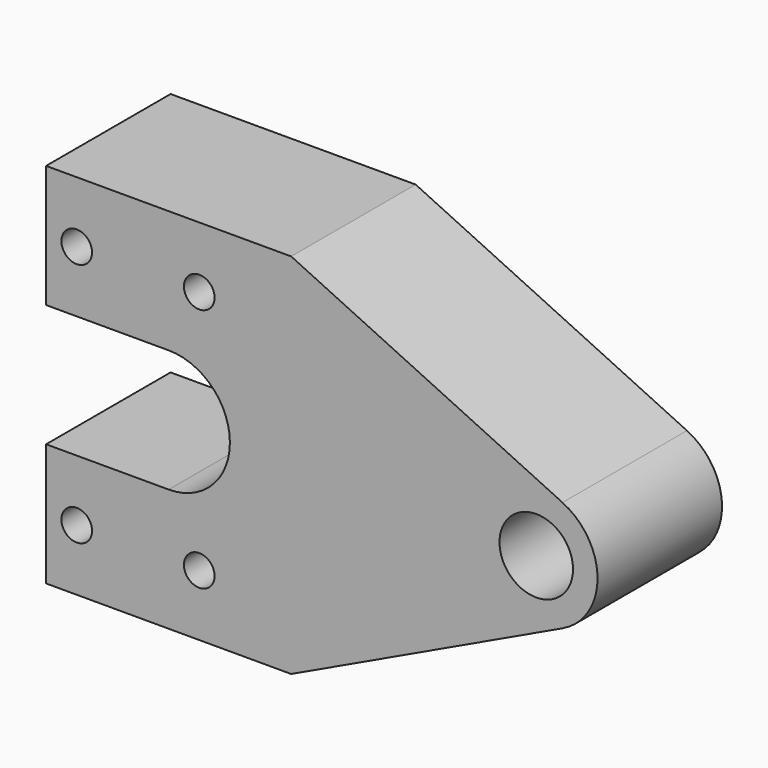
from build123d import *

# Parameters (mm, degrees)
F0_R     = 2.5
F0_R_2   = 6
F1_DEPTH = 25.4


with BuildPart() as f1:
    # F0 (on Front) → F1 (new body)
    with BuildSketch(Plane.XZ):
        with BuildLine():
            ThreePointArc((0, 10), (10, 0), (0, -10))
            Line((0, -10), (-20, -10))
            Line((-20, -10), (-20, -30))
            Line((-20, -30), (20, -30))
            Line((20, -30), (64.278775, -9.038367))
            ThreePointArc((64.278775, -9.038367), (70, 0), (64.278775, 9.038367))
            Line((64.278775, 9.038367), (20, 30))
            Line((20, 30), (-20, 30))
            Line((-20, 30), (-20, 10))
            Line((-20, 10), (0, 10))
        make_face()
        with Locations((-15, -20)):
            Circle(F0_R, mode=Mode.SUBTRACT)
        with Locations((5, -20)):
            Circle(F0_R, mode=Mode.SUBTRACT)
        with Locations((-15, 20)):
            Circle(F0_R, mode=Mode.SUBTRACT)
        with Locations((5, 20)):
            Circle(F0_R, mode=Mode.SUBTRACT)
        with Locations((60, 0)):
            Circle(F0_R_2, mode=Mode.SUBTRACT)
    extrude(amount=F1_DEPTH)


solid = f1.part
